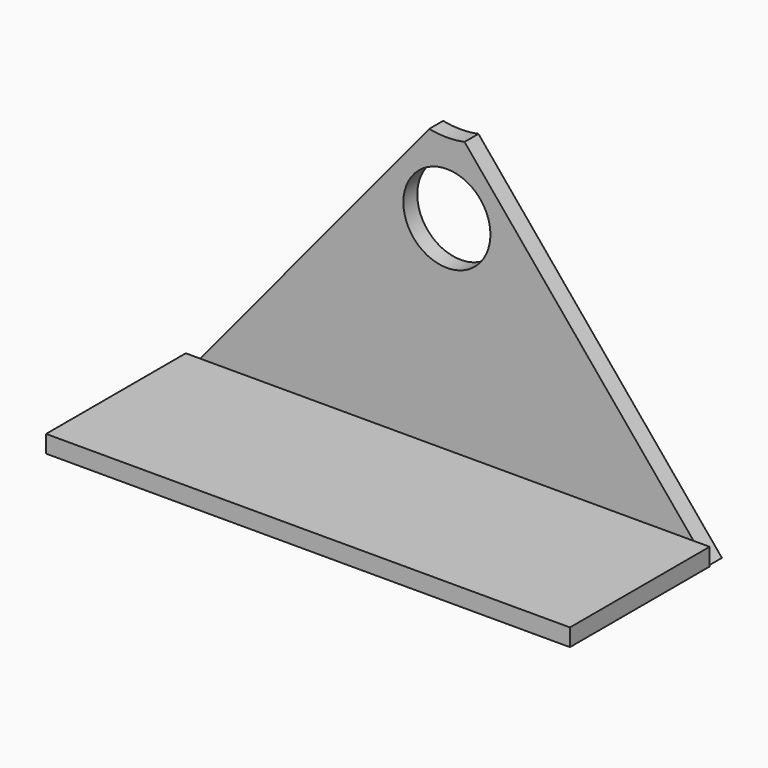
from build123d import *

# Parameters (mm, degrees)
F1_DEPTH = 1
F3_D     = 10
F4_W     = 30.093235299
F4_H     = 10.0299605876
F5_DEPTH = 1
F7_D     = 5


with BuildPart() as f1:
    # F0 (on Front) → F1 (new body)
    with BuildSketch(Plane.XZ):
        Polygon((-15, -9.0614365251), (15, -9.0614365251), (0, 9.0614365251), align=None)
    extrude(amount=F1_DEPTH)

    # F3 (through all)
    with Locations(Plane.XZ.offset(1)):
        with Locations((0, 12.73057051)):
            Hole(F3_D / 2)

    # F4 (on face) → F5 (join)
    with BuildSketch(Plane(origin=(0, 0, -9.0614365251), x_dir=(1, 0, 0), z_dir=(0, 0, -1))):
        with Locations((0.0466176495, 6.0149802938)):
            Rectangle(F4_W, F4_H)
    extrude(amount=-F5_DEPTH)

    # F7 (through all)
    with Locations(Plane.XZ.offset(1)):
        with Locations((0, 3.6346598063)):
            Hole(F7_D / 2)


solid = f1.part
